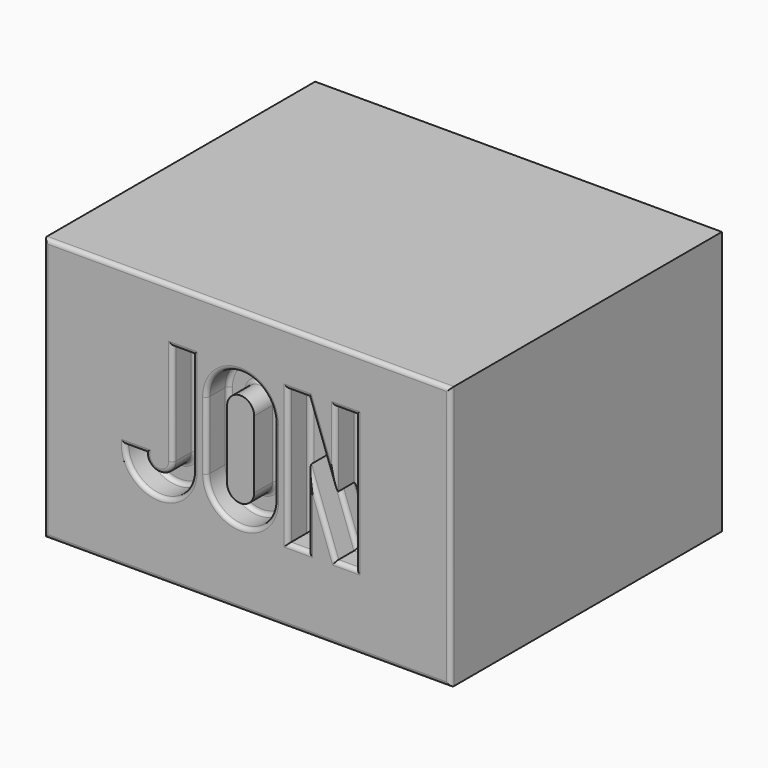
from build123d import *

# Parameters (mm, degrees)
F0_W     = 76.2
F0_H     = 49.403003
F1_DEPTH = 63.5
F3_DEPTH = 5.08
F4_R     = 0.762


with BuildPart() as f1:
    # F0 (on Front) → F1 (new body)
    with BuildSketch(Plane.XZ):
        with Locations((38.1, -24.701501)):
            Rectangle(F0_W, F0_H)
    extrude(amount=F1_DEPTH)

    # F2 (on face) → F3 (cut)
    with BuildSketch(Plane.XZ.offset(63.5)):
        with BuildLine():
            Line((27.94, -10.16), (24.13, -10.16))
            Line((24.13, -10.16), (24.13, -29.21))
            ThreePointArc((24.13, -29.21), (21.59, -31.75), (19.05, -29.21))
            Line((19.05, -29.21), (15.24, -29.21))
            ThreePointArc((15.24, -29.21), (21.59, -35.56), (27.94, -29.21))
            Line((27.94, -29.21), (27.94, -10.16))
        make_face()
        with BuildLine():
            Line((43.18, -29.21), (43.18, -16.51))
            ThreePointArc((43.18, -16.51), (36.83, -10.16), (30.48, -16.51))
            Line((30.48, -16.51), (30.48, -29.21))
            ThreePointArc((30.48, -29.21), (36.83, -35.56), (43.18, -29.21))
        make_face()
        with BuildLine():
            ThreePointArc((34.29, -16.51), (36.83, -13.97), (39.37, -16.51))
            Line((39.37, -16.51), (39.37, -29.21))
            ThreePointArc((39.37, -29.21), (36.83, -31.75), (34.29, -29.21))
            Line((34.29, -29.21), (34.29, -16.51))
        make_face(mode=Mode.SUBTRACT)
        Polygon((45.72, -10.16), (45.72, -35.56), (49.53, -35.56), (49.53, -21.425062), (54.61, -35.56), (58.42, -35.56), (58.42, -10.16), (54.61, -10.16), (54.61, -24.294938), (49.53, -10.16), align=None)
    extrude(amount=-F3_DEPTH, mode=Mode.SUBTRACT)

    # F4
    f4_edges = [f1.edges().sort_by_distance(p)[0] for p in [
        (38.1, -63.5, 0),
        (0, -63.5, -24.701501),
        (38.1, -63.5, -49.403003),
        (76.2, -63.5, -24.701501),
        (58.42, -63.5, -22.86),
        (56.515, -63.5, -10.16),
        (54.61, -63.5, -17.227469),
        (52.07, -63.5, -17.227469),
        (47.625, -63.5, -10.16),
        (45.72, -63.5, -22.86),
        (47.625, -63.5, -35.56),
        (49.53, -63.5, -28.492531),
        (52.07, -63.5, -28.492531),
        (56.515, -63.5, -35.56),
        (43.18, -63.5, -22.86),
        (36.83, -63.5, -10.16),
        (30.48, -63.5, -22.86),
        (36.83, -63.5, -35.56),
        (27.94, -63.5, -19.685),
        (26.035, -63.5, -10.16),
        (24.13, -63.5, -19.685),
        (21.59, -63.5, -31.75),
        (17.145, -63.5, -29.21),
        (21.59, -63.5, -35.56),
        (43.18, -58.42, -22.86),
        (36.83, -58.42, -10.16),
        (30.48, -58.42, -22.86),
        (36.83, -58.42, -35.56),
        (36.83, -58.42, -13.97),
        (39.37, -58.42, -22.86),
        (36.83, -58.42, -31.75),
        (34.29, -58.42, -22.86),
        (45.72, -58.42, -22.86),
        (47.625, -58.42, -35.56),
        (49.53, -58.42, -28.492531),
        (52.07, -58.42, -28.492531),
        (56.515, -58.42, -35.56),
        (58.42, -58.42, -22.86),
        (56.515, -58.42, -10.16),
        (54.61, -58.42, -17.227469),
        (52.07, -58.42, -17.227469),
        (47.625, -58.42, -10.16),
        (27.94, -58.42, -19.685),
        (26.035, -58.42, -10.16),
        (24.13, -58.42, -19.685),
        (21.59, -58.42, -31.75),
        (17.145, -58.42, -29.21),
        (21.59, -58.42, -35.56),
    ]]
    fillet(f4_edges, radius=F4_R)


solid = f1.part
